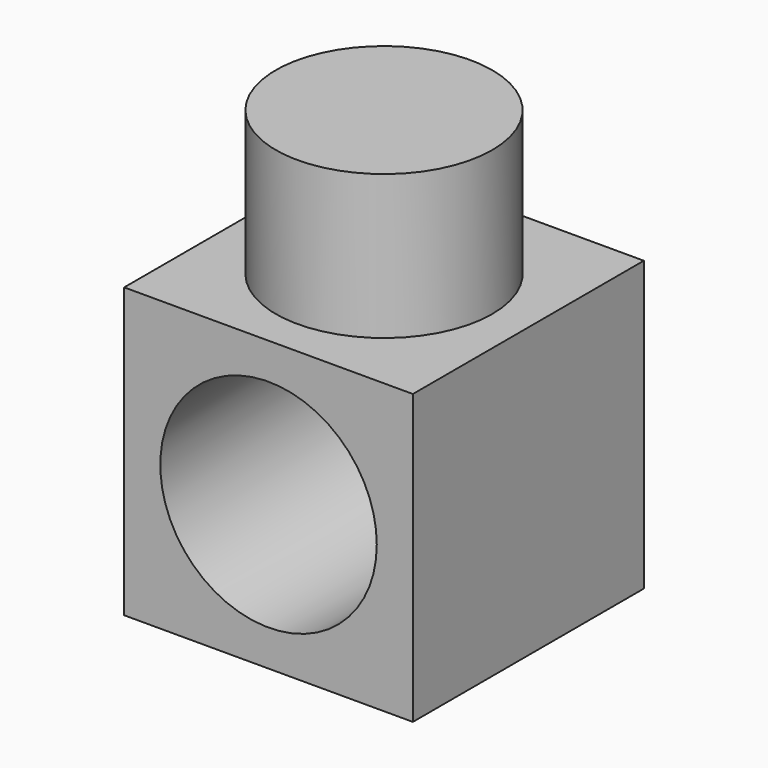
from build123d import *

# Parameters (mm, degrees)
F0_W     = 20
F0_H     = 20
F1_DEPTH = 20
F2_R     = 7.5
F3_DEPTH = 10
F4_R     = 7.5
F5_DEPTH = 25


with BuildPart() as f1:
    # F0 (on Front) → F1 (new body)
    with BuildSketch(Plane.XZ):
        with Locations((10, 10)):
            Rectangle(F0_W, F0_H)
    extrude(amount=F1_DEPTH)

    # F2 (on face) → F3 (join)
    with BuildSketch(Plane.XY.offset(20)):
        with Locations((10, -10)):
            Circle(F2_R)
    extrude(amount=F3_DEPTH)

    # F4 (on face) → F5 (cut)
    with BuildSketch(Plane.XZ.offset(20)):
        with Locations((10, 10)):
            Circle(F4_R)
    extrude(amount=-F5_DEPTH, mode=Mode.SUBTRACT)


solid = f1.part
